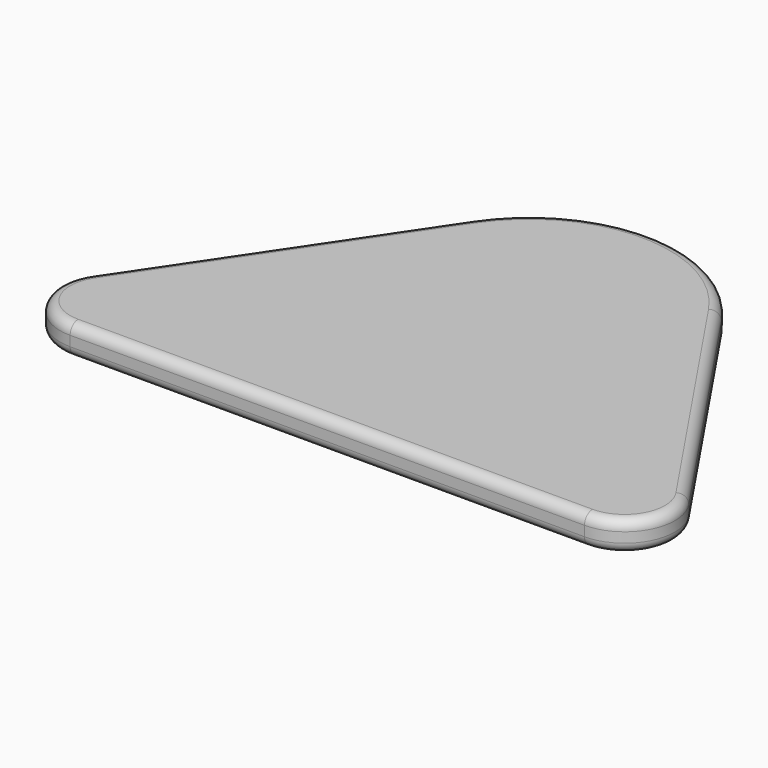
from build123d import *

# Parameters (mm, degrees)
F1_DEPTH = 30
F2_R     = 10


with BuildPart() as f1:
    # F0 (on Top) → F1 (new body)
    with BuildSketch(Plane.XY):
        with BuildLine():
            ThreePointArc((-297.467466, 3.293289), (-300.135499, -48.126514), (-255.996245, -74.637659))
            Line((-255.996245, -74.637659), (256.074257, -74.637659))
            ThreePointArc((256.074257, -74.637659), (300.214937, -48.123832), (297.542083, 3.298328))
            Line((297.542083, 3.298328), (124.419791, 260.278877))
            ThreePointArc((124.419791, 260.278877), (0.007199, 326.470917), (-124.397351, 260.263762))
            Line((-124.397351, 260.263762), (-297.467466, 3.293289))
        make_face()
        with BuildLine():
            ThreePointArc((-297.467466, 3.293289), (-300.135499, -48.126514), (-255.996245, -74.637659))
            Line((-255.996245, -74.637659), (256.074257, -74.637659))
            ThreePointArc((256.074257, -74.637659), (300.214937, -48.123832), (297.542083, 3.298328))
            Line((297.542083, 3.298328), (124.419791, 260.278877))
            ThreePointArc((124.419791, 260.278877), (0.007199, 326.470917), (-124.397351, 260.263762))
            Line((-124.397351, 260.263762), (-297.467466, 3.293289))
        make_face()
    extrude(amount=F1_DEPTH)

    # F2
    f2_edges = [f1.edges().sort_by_distance(p)[0] for p in [
        (-210.932408, 131.778525, 30),
        (-210.932408, 131.778525, 0),
    ]]
    fillet(f2_edges, radius=F2_R)


solid = f1.part
